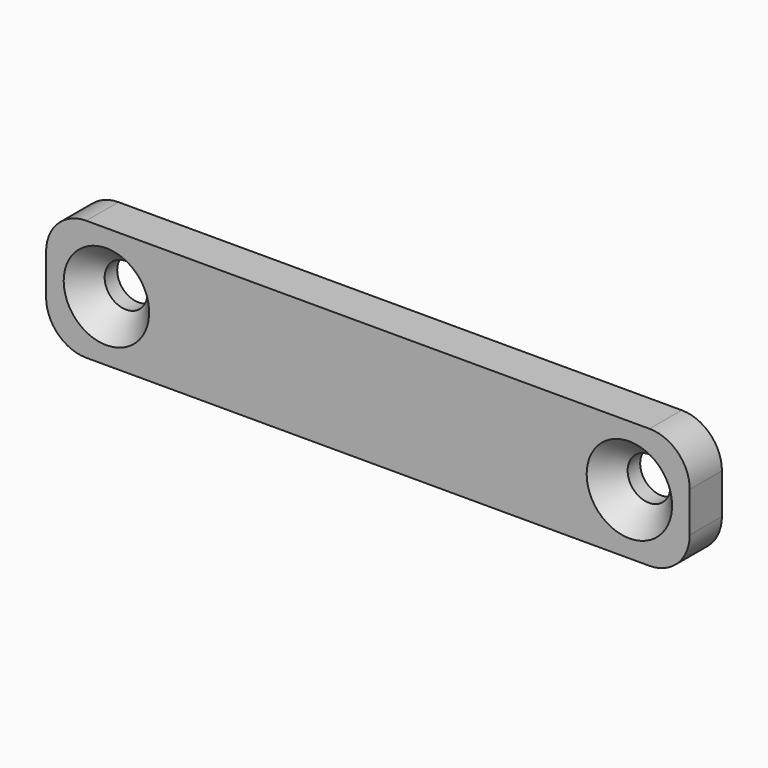
from build123d import *

# Parameters (mm, degrees)
F0_W           = 101.6
F0_H           = 19.05
F1_DEPTH       = 6.35
F3_D           = 6.7564
F3_CSINK_D     = 13.4874
F3_CSINK_ANGLE = 82
F4_R           = 6.35


with BuildPart() as f1:
    # F0 (on Front) → F1 (new body)
    with BuildSketch(Plane.XZ):
        Rectangle(F0_W, F0_H)
    extrude(amount=F1_DEPTH)

    # F3 (through all)
    with Locations(Plane.XZ.offset(6.35)):
        with Locations((-41.275, 0), (41.275, 0)):
            CounterSinkHole(F3_D / 2, F3_CSINK_D / 2, counter_sink_angle=F3_CSINK_ANGLE)

    # F4
    f4_edges = [f1.edges().sort_by_distance(p)[0] for p in [
        (-50.8, -3.175, 9.525),
        (-50.8, -3.175, -9.525),
        (50.8, -3.175, -9.525),
        (50.8, -3.175, 9.525),
    ]]
    fillet(f4_edges, radius=F4_R)


solid = f1.part
